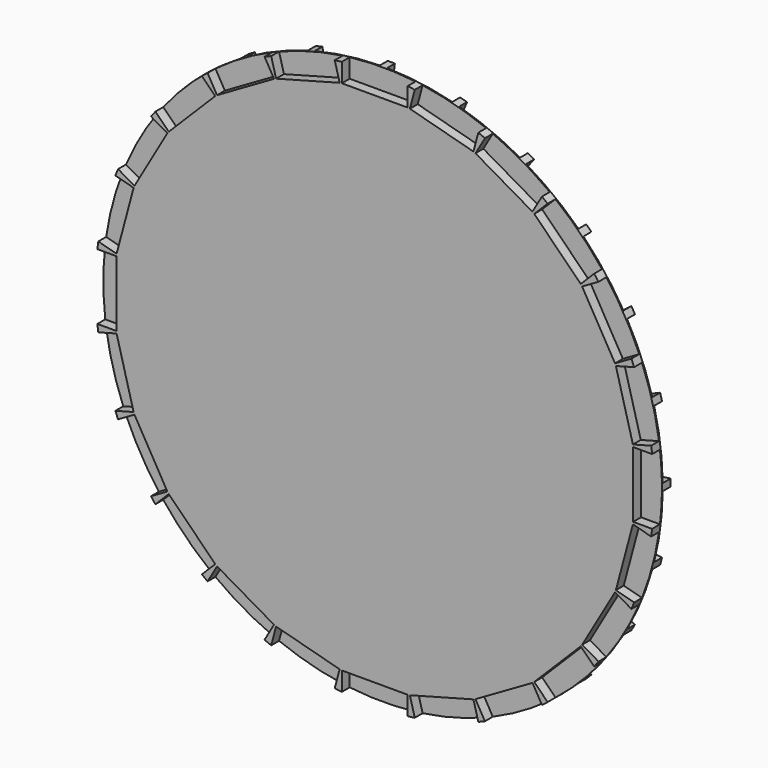
from build123d import *

# Parameters (mm, degrees)
F0_R     = 20.2184
F1_DEPTH = 1.4986
F3_DEPTH = 0.7112
F5_DEPTH = 0.7112


with BuildPart() as f1:
    # F0 (on Front) → F1 (new body)
    with BuildSketch(Plane.XZ):
        Circle(F0_R)
    extrude(amount=-F1_DEPTH)

    # F2 (on face) → F3 (cut)
    with BuildSketch(Plane.XZ):
        Polygon((-2.38125, 18.708565), (0, 18.708565), (2.38125, 18.708565), (2.38125, 20.740565), (-2.38125, 20.740565), align=None)
        Polygon((-7.142244, 17.454773), (-4.842133, 18.071086), (-2.542022, 18.687399), (-3.067942, 20.65016), (-7.668164, 19.417534), align=None)
        Polygon((-11.416505, 15.011467), (-9.354282, 16.202092), (-7.292059, 17.392717), (-8.308059, 19.152481), (-12.432505, 16.771231), align=None)
        Polygon((-14.912751, 11.545155), (-13.228953, 13.228953), (-11.545155, 14.912751), (-12.981996, 16.349592), (-16.349592, 12.981996), align=None)
        Polygon((-17.392717, 7.292059), (-16.202092, 9.354282), (-15.011467, 11.416505), (-16.771231, 12.432505), (-19.152481, 8.308059), align=None)
        Polygon((-18.687399, 2.542022), (-18.071086, 4.842133), (-17.454773, 7.142244), (-19.417534, 7.668164), (-20.65016, 3.067942), align=None)
        Polygon((-18.708565, -2.38125), (-18.708565, 0), (-18.708565, 2.38125), (-20.740565, 2.38125), (-20.740565, -2.38125), align=None)
        Polygon((-17.454773, -7.142244), (-18.071086, -4.842133), (-18.687399, -2.542022), (-20.65016, -3.067942), (-19.417534, -7.668164), align=None)
        Polygon((-15.011467, -11.416505), (-16.202092, -9.354282), (-17.392717, -7.292059), (-19.152481, -8.308059), (-16.771231, -12.432505), align=None)
        Polygon((-11.545155, -14.912751), (-13.228953, -13.228953), (-14.912751, -11.545155), (-16.349592, -12.981996), (-12.981996, -16.349592), align=None)
        Polygon((-7.292059, -17.392717), (-9.354282, -16.202092), (-11.416505, -15.011467), (-12.432505, -16.771231), (-8.308059, -19.152481), align=None)
        Polygon((-2.542022, -18.687399), (-4.842133, -18.071086), (-7.142244, -17.454773), (-7.668164, -19.417534), (-3.067942, -20.65016), align=None)
        Polygon((2.38125, -18.708565), (0, -18.708565), (-2.38125, -18.708565), (-2.38125, -20.740565), (2.38125, -20.740565), align=None)
        Polygon((7.142244, -17.454773), (4.842133, -18.071086), (2.542022, -18.687399), (3.067942, -20.65016), (7.668164, -19.417534), align=None)
        Polygon((11.416505, -15.011467), (9.354282, -16.202092), (7.292059, -17.392717), (8.308059, -19.152481), (12.432505, -16.771231), align=None)
        Polygon((14.912751, -11.545155), (13.228953, -13.228953), (11.545155, -14.912751), (12.981996, -16.349592), (16.349592, -12.981996), align=None)
        Polygon((17.392717, -7.292059), (16.202092, -9.354282), (15.011467, -11.416505), (16.771231, -12.432505), (19.152481, -8.308059), align=None)
        Polygon((18.687399, -2.542022), (18.071086, -4.842133), (17.454773, -7.142244), (19.417534, -7.668164), (20.65016, -3.067942), align=None)
        Polygon((18.708565, 2.38125), (18.708565, 0), (18.708565, -2.38125), (20.740565, -2.38125), (20.740565, 2.38125), align=None)
        Polygon((17.454773, 7.142244), (18.071086, 4.842133), (18.687399, 2.542022), (20.65016, 3.067942), (19.417534, 7.668164), align=None)
        Polygon((15.011467, 11.416505), (16.202092, 9.354282), (17.392717, 7.292059), (19.152481, 8.308059), (16.771231, 12.432505), align=None)
        Polygon((11.545155, 14.912751), (13.228953, 13.228953), (14.912751, 11.545155), (16.349592, 12.981996), (12.981996, 16.349592), align=None)
        Polygon((7.292059, 17.392717), (9.354282, 16.202092), (11.416505, 15.011467), (12.432505, 16.771231), (8.308059, 19.152481), align=None)
        Polygon((2.542022, 18.687399), (4.842133, 18.071086), (7.142244, 17.454773), (7.668164, 19.417534), (3.067942, 20.65016), align=None)
    extrude(amount=-F3_DEPTH, mode=Mode.SUBTRACT)

    # F4 (on face) → F5 (cut)
    with BuildSketch(Plane(origin=(0, 1.4986, 0), x_dir=(-1, 0, 0), z_dir=(0, 1, 0))):
        Polygon((0.36601, 21.023586), (0.08108, 18.859326), (2.441958, 18.54851), (4.802836, 18.237695), (5.087766, 20.401955), align=None)
        Polygon((-5.087766, 20.401955), (-4.802836, 18.237695), (-2.441958, 18.54851), (-0.08108, 18.859326), (-0.36601, 21.023586), align=None)
        Polygon((-10.194819, 18.389964), (-9.359446, 16.373195), (-7.159458, 17.28446), (-4.95947, 18.195725), (-5.794843, 20.212494), align=None)
        Polygon((-14.607112, 15.124728), (-13.278225, 13.392889), (-11.389053, 14.842502), (-9.49988, 16.292115), (-10.828767, 18.023954), align=None)
        Polygon((-18.023954, 10.828767), (-16.292115, 9.49988), (-14.842502, 11.389053), (-13.392889, 13.278225), (-15.124728, 14.607112), align=None)
        Polygon((-20.212494, 5.794843), (-18.195725, 4.95947), (-17.28446, 7.159458), (-16.373195, 9.359446), (-18.389964, 10.194819), align=None)
        Polygon((-21.023586, 0.36601), (-18.859326, 0.08108), (-18.54851, 2.441958), (-18.237695, 4.802836), (-20.401955, 5.087766), align=None)
        Polygon((-20.401955, -5.087766), (-18.237695, -4.802836), (-18.54851, -2.441958), (-18.859326, -0.08108), (-21.023586, -0.36601), align=None)
        Polygon((-18.389964, -10.194819), (-16.373195, -9.359446), (-17.28446, -7.159458), (-18.195725, -4.95947), (-20.212494, -5.794843), align=None)
        Polygon((-15.124728, -14.607112), (-13.392889, -13.278225), (-14.842502, -11.389053), (-16.292115, -9.49988), (-18.023954, -10.828767), align=None)
        Polygon((-10.828767, -18.023954), (-9.49988, -16.292115), (-11.389053, -14.842502), (-13.278225, -13.392889), (-14.607112, -15.124728), align=None)
        Polygon((-5.794843, -20.212494), (-4.95947, -18.195725), (-7.159458, -17.28446), (-9.359446, -16.373195), (-10.194819, -18.389964), align=None)
        Polygon((-0.36601, -21.023586), (-0.08108, -18.859326), (-2.441958, -18.54851), (-4.802836, -18.237695), (-5.087766, -20.401955), align=None)
        Polygon((5.087766, -20.401955), (4.802836, -18.237695), (2.441958, -18.54851), (0.08108, -18.859326), (0.36601, -21.023586), align=None)
        Polygon((10.194819, -18.389964), (9.359446, -16.373195), (7.159458, -17.28446), (4.95947, -18.195725), (5.794843, -20.212494), align=None)
        Polygon((14.607112, -15.124728), (13.278225, -13.392889), (11.389053, -14.842502), (9.49988, -16.292115), (10.828767, -18.023954), align=None)
        Polygon((18.023954, -10.828767), (16.292115, -9.49988), (14.842502, -11.389053), (13.392889, -13.278225), (15.124728, -14.607112), align=None)
        Polygon((20.212494, -5.794843), (18.195725, -4.95947), (17.28446, -7.159458), (16.373195, -9.359446), (18.389964, -10.194819), align=None)
        Polygon((21.023586, -0.36601), (18.859326, -0.08108), (18.54851, -2.441958), (18.237695, -4.802836), (20.401955, -5.087766), align=None)
        Polygon((20.401955, 5.087766), (18.237695, 4.802836), (18.54851, 2.441958), (18.859326, 0.08108), (21.023586, 0.36601), align=None)
        Polygon((18.389964, 10.194819), (16.373195, 9.359446), (17.28446, 7.159458), (18.195725, 4.95947), (20.212494, 5.794843), align=None)
        Polygon((15.124728, 14.607112), (13.392889, 13.278225), (14.842502, 11.389053), (16.292115, 9.49988), (18.023954, 10.828767), align=None)
        Polygon((10.828767, 18.023954), (9.49988, 16.292115), (11.389053, 14.842502), (13.278225, 13.392889), (14.607112, 15.124728), align=None)
        Polygon((5.794843, 20.212494), (4.95947, 18.195725), (7.159458, 17.28446), (9.359446, 16.373195), (10.194819, 18.389964), align=None)
    extrude(amount=-F5_DEPTH, mode=Mode.SUBTRACT)


solid = f1.part
